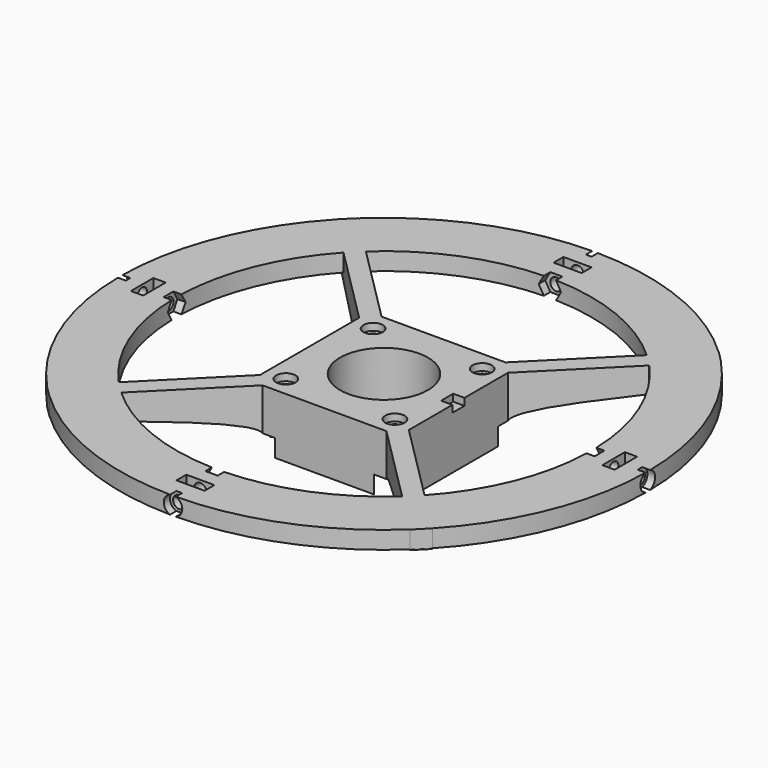
from build123d import *

# Parameters (mm, degrees)
SKETCH031_R           = 12.5
PAD018_DEPTH          = 5
SKETCH032_R           = 1.5
SKETCH032_R_2         = 12.5
PAD019_DEPTH          = 12
SKETCH036_R           = 2.75
POCKET003_DEPTH       = 2
PAD020_DEPTH          = 2.5
POLARPATTERN_COUNT    = 4
SKETCH040_R           = 75
SKETCH040_R_2         = 59
PAD021_DEPTH          = 5
SKETCH042_R           = 1.75
POCKET004_DEPTH       = 75
POLARPATTERN001_COUNT = 4
SKETCH043_W           = 8
SKETCH043_H           = 3.5
POCKET005_DEPTH       = 5
POLARPATTERN002_COUNT = 4
POCKET006_DEPTH       = 2.5
SKETCH045_R           = 2.625
POCKET007_DEPTH       = 2.5
POLARPATTERN003_COUNT = 4
POLARPATTERN004_COUNT = 4
SKETCH053_W           = 3.2
SKETCH053_H           = 4.3
POCKET010_DEPTH       = 2


with BuildPart() as part:
    # Sketch031 (on Face1 of Binder005) → Pad018 (new body)
    with BuildSketch(Plane.XY.offset(40)):
        Polygon((-7.0394660941, 14.1105339059), (-14.0789321881, 21.15), (14.0789321881, 21.15), (7.0394660941, 14.1105339059), (14.1105339059, 7.0394660941), (21.15, 14.0789321881), (21.15, -14.0789321881), (14.1105339059, -7.0394660941), (7.0394660941, -14.1105339059), (14.0789321881, -21.15), (-14.0789321881, -21.15), (-7.0394660941, -14.1105339059), (-14.1105339059, -7.0394660941), (-21.15, -14.0789321881), (-21.15, 14.0789321881), (-14.1105339059, 7.0394660941), align=None)
        Circle(SKETCH031_R, mode=Mode.SUBTRACT)
    extrude(amount=PAD018_DEPTH)

    # Sketch032 (on Face19 of Pad018) → Pad019 (join)
    with BuildSketch(Plane.XY.offset(45)):
        Polygon((-21.15, 17.6144660941), (-17.6144660941, 21.15), (17.6144660941, 21.15), (21.15, 17.6144660941), (21.15, -17.6144660941), (17.6144660941, -21.15), (-17.6144660941, -21.15), (-21.15, -17.6144660941), align=None)
        with Locations((-15.5, 15.5)):
            Circle(SKETCH032_R, mode=Mode.SUBTRACT)
        with Locations((15.5, 15.5)):
            Circle(SKETCH032_R, mode=Mode.SUBTRACT)
        with Locations((15.5, -15.5)):
            Circle(SKETCH032_R, mode=Mode.SUBTRACT)
        with Locations((-15.5, -15.5)):
            Circle(SKETCH032_R, mode=Mode.SUBTRACT)
        Circle(SKETCH032_R_2, mode=Mode.SUBTRACT)
    extrude(amount=PAD019_DEPTH)

    # Sketch036 (on Face26 of Pad019) → Pocket003 (cut)
    with BuildSketch(Plane.XY.offset(57)):
        with Locations((15.5, -15.5)):
            Circle(SKETCH036_R)
        with Locations((-15.5, -15.5)):
            Circle(SKETCH036_R)
        with Locations((-15.5, 15.5)):
            Circle(SKETCH036_R)
        with Locations((15.5, 15.5)):
            Circle(SKETCH036_R)
    extrude(amount=-POCKET003_DEPTH, mode=Mode.SUBTRACT)

    # Sketch041 (on DatumPlane) → Pad020 (join, symmetric)
    with BuildSketch(Plane(origin=(24.1384138787, 24.1384138787, 53), x_dir=(-0.7071067812, -0.7071067812, 0), z_dir=(-0.7071067812, 0.7071067812, 0))):
        with BuildLine():
            Line((-40.8631277186, 4), (-40.8631277186, -1))
            add(Edge.make_bspline(
                [(-40.8631277186, -1), (-40.8631277186, -3.38), (3.8168722814, -3.38), (6.7262554372, -8)],
                knots=[0, 0, 0, 0, 1, 1, 1, 1], degree=3))
            Line((6.7262554372, -8), (6.7262554372, 4))
            Line((6.7262554372, 4), (-40.8631277186, 4))
        make_face()
    pad020 = extrude(amount=PAD020_DEPTH, both=True)

    # PolarPattern: Pad020 ×4 about axis
    polarpattern_axis = Axis((0, 0, 0), (0, 0, 1))
    for i in range(1, POLARPATTERN_COUNT):
        add(pad020.rotate(polarpattern_axis, i * 360 / POLARPATTERN_COUNT))

    # Sketch040 (on Face26 of Pocket003) → Pad021 (join)
    with BuildSketch(Plane.XY.offset(57)):
        Circle(SKETCH040_R)
        Circle(SKETCH040_R_2, mode=Mode.SUBTRACT)
    extrude(amount=-PAD021_DEPTH)

    # Sketch042 (on Face8 of Pad021) → Pocket004 (cut)
    with BuildSketch(Plane(origin=(0, 21.15, 0), x_dir=(-1, 0, 0), z_dir=(0, 1, 0))):
        with Locations((0, 54.5)):
            Circle(SKETCH042_R)
    pocket004 = extrude(amount=POCKET004_DEPTH, mode=Mode.SUBTRACT)

    # PolarPattern001: Pocket004 ×4 about axis
    polarpattern001_axis = Axis((0, 0, 0), (0, 0, 1))
    for i in range(1, POLARPATTERN001_COUNT):
        add(pocket004.rotate(polarpattern001_axis, i * 360 / POLARPATTERN001_COUNT), mode=Mode.SUBTRACT)

    # Sketch043 (on Face26 of PolarPattern001) → Pocket005 (cut)
    with BuildSketch(Plane.XY.offset(57)):
        with Locations((0, 67)):
            Rectangle(SKETCH043_W, SKETCH043_H)
    pocket005 = extrude(amount=-POCKET005_DEPTH, mode=Mode.SUBTRACT)

    # PolarPattern002: Pocket005 ×4 about axis
    polarpattern002_axis = Axis((0, 0, 0), (0, 0, 1))
    for i in range(1, POLARPATTERN002_COUNT):
        add(pocket005.rotate(polarpattern002_axis, i * 360 / POLARPATTERN002_COUNT), mode=Mode.SUBTRACT)

    # Sketch044 (on Face80 of PolarPattern002) → Pocket006 (cut)
    with BuildSketch(Plane(origin=(0, 61.25, 0), x_dir=(-1, 0, 0), z_dir=(0, 1, 0))):
        Polygon((1.5877132403, 57.25), (-1.5877132403, 57.25), (-3.1754264805, 54.5), (-1.5877132403, 51.75), (1.5877132403, 51.75), (3.1754264805, 54.5), align=None)
    pocket006 = extrude(amount=-POCKET006_DEPTH, mode=Mode.SUBTRACT)

    # Sketch045 (on Face82 of Pocket006) → Pocket007 (cut)
    with BuildSketch(Plane.XZ.offset(-72.75)):
        with Locations((0, 54.5)):
            Circle(SKETCH045_R)
    pocket007 = extrude(amount=-POCKET007_DEPTH, mode=Mode.SUBTRACT)

    # PolarPattern003: Pocket006 ×4 about axis
    polarpattern003_axis = Axis((0, 0, 0), (0, 0, 1))
    for i in range(1, POLARPATTERN003_COUNT):
        add(pocket006.rotate(polarpattern003_axis, i * 360 / POLARPATTERN003_COUNT), mode=Mode.SUBTRACT)

    # PolarPattern004: Pocket007 ×4 about axis
    polarpattern004_axis = Axis((0, 0, 0), (0, 0, 1))
    for i in range(1, POLARPATTERN004_COUNT):
        add(pocket007.rotate(polarpattern004_axis, i * 360 / POLARPATTERN004_COUNT), mode=Mode.SUBTRACT)

    # Sketch053 (on Face26 of PolarPattern004) → Pocket010 (cut)
    with BuildSketch(Plane.XY.offset(57)):
        with Locations((19.55, 0)):
            Rectangle(SKETCH053_W, SKETCH053_H)
    extrude(amount=-POCKET010_DEPTH, mode=Mode.SUBTRACT)


solid = part.part
